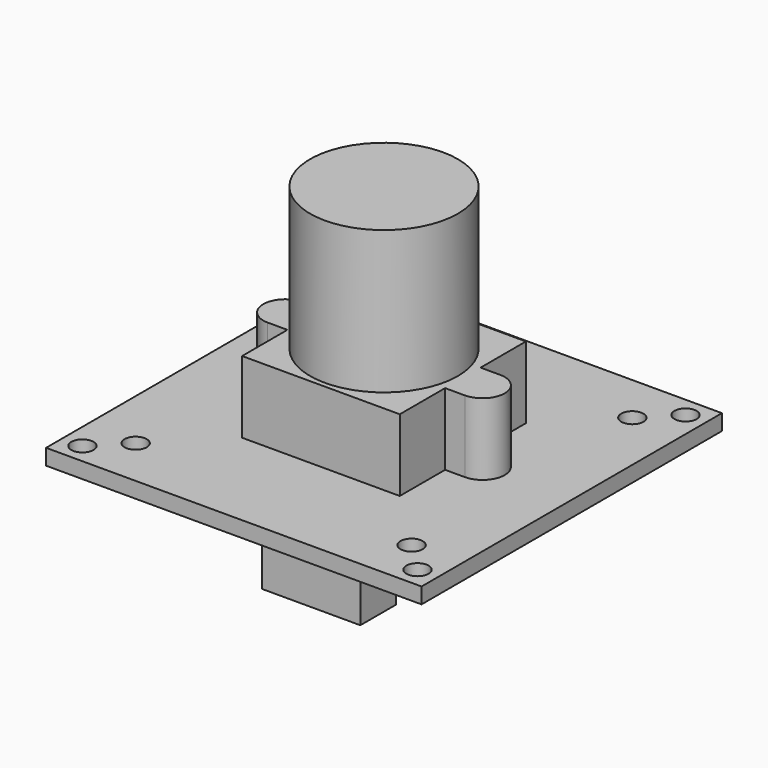
from build123d import *

# Parameters (mm, degrees)
SKETCH_W     = 38.1
SKETCH_H     = 38.1
SKETCH_R     = 1.125
PAD_DEPTH    = 1.6
PAD001_DEPTH = 7.3
SKETCH002_R  = 7.5
PAD002_DEPTH = 14.5
SKETCH003_W  = 10
SKETCH003_H  = 4.5
PAD003_DEPTH = 6.25


with BuildPart() as part:
    # Sketch → Pad (new body)
    with BuildSketch(Plane.XY):
        Rectangle(SKETCH_W, SKETCH_H)
        with Locations((-14, 14)):
            Circle(SKETCH_R, mode=Mode.SUBTRACT)
        with Locations((14, 14)):
            Circle(SKETCH_R, mode=Mode.SUBTRACT)
        with Locations((14, -14)):
            Circle(SKETCH_R, mode=Mode.SUBTRACT)
        with Locations((-14, -14)):
            Circle(SKETCH_R, mode=Mode.SUBTRACT)
        with Locations((-17, 17)):
            Circle(SKETCH_R, mode=Mode.SUBTRACT)
        with Locations((17, 17)):
            Circle(SKETCH_R, mode=Mode.SUBTRACT)
        with Locations((17, -17)):
            Circle(SKETCH_R, mode=Mode.SUBTRACT)
        with Locations((-17, -17)):
            Circle(SKETCH_R, mode=Mode.SUBTRACT)
    extrude(amount=-PAD_DEPTH)

    # Sketch001 → Pad001 (join)
    with BuildSketch(Plane.XY):
        with BuildLine():
            Line((-8, 2.25), (-8, 8))
            Line((-8, 8), (8, 8))
            Line((8, 8), (8, 2.25))
            Line((8, 2.25), (10.000011, 2.25))
            ThreePointArc((10.000011, -2.25), (12.25, 0), (10.000011, 2.25))
            Line((8, -2.25), (10.000011, -2.25))
            Line((8, -8), (8, -2.25))
            Line((-8, -8), (8, -8))
            Line((-8, -2.25), (-8, -8))
            Line((-9.999989, -2.25), (-8, -2.25))
            ThreePointArc((-10, 2.25), (-12.25, -6e-06), (-9.999989, -2.25))
            Line((-10, 2.25), (-8, 2.25))
        make_face()
    extrude(amount=PAD001_DEPTH)

    # Sketch002 (on DatumPlane) → Pad002 (join)
    with BuildSketch(Plane.XY.offset(7.3)):
        Circle(SKETCH002_R)
    extrude(amount=PAD002_DEPTH)

    # Sketch003 (on DatumPlane) → Pad003 (join)
    with BuildSketch(Plane(origin=(0, 0, -1.6), x_dir=(1, 0, 0), z_dir=(0, 0, -1))):
        with Locations((5, 13.25)):
            Rectangle(SKETCH003_W, SKETCH003_H)
    extrude(amount=PAD003_DEPTH)


solid = part.part
